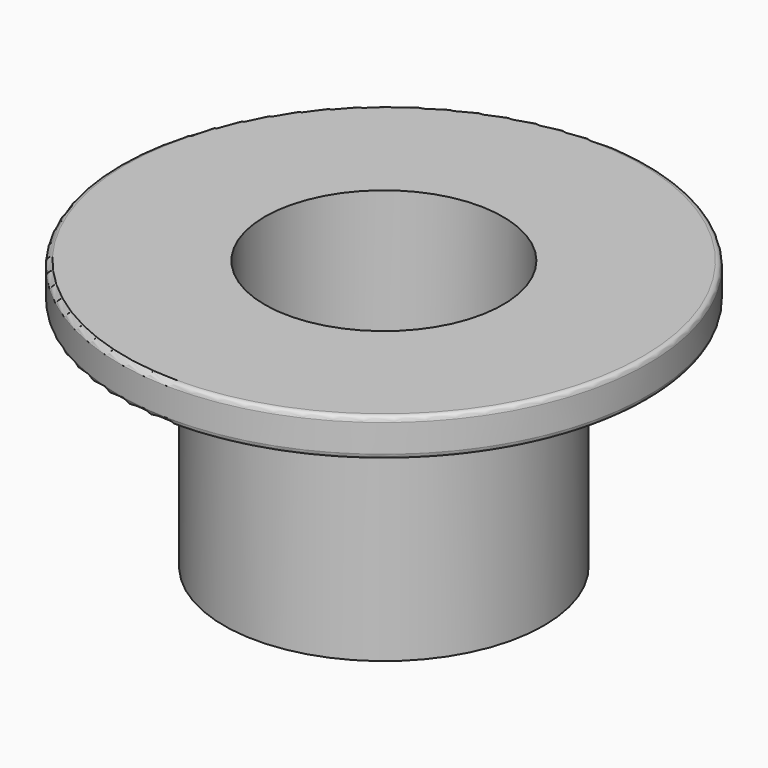
from build123d import *

# Parameters (mm, degrees)
F0_W = 16.0665810108
F0_H = 76.591335237
F1_W = 2.0740795881
F1_H = 12.7407778054
F3_R = 2
F4_R = 2


with BuildPart() as f2:
    # F0 (on Front) → F2 (revolve)
    with BuildSketch(Plane.XZ):
        Polygon((-23.4742984176, 22.5179940462), (-7.4077174067, 22.5179940462), (-7.4077174067, 37.4841094017), (-64.4110590219, 37.4841094017), (-64.4110590219, 22.5179940462), align=None)
        with Locations((-15.4410079122, -15.7776735723)):
            Rectangle(F0_W, F0_H)
        Polygon((39.4714772701, -54.0733411908), (-7.4077174067, -54.0733411908), (-23.4742984176, -54.0733411908), (-23.4742984176, -68.4892460704), (39.4714772701, -68.4892460704), align=None)
    revolve(axis=Axis((39.4714772701, 0, -61.2812936306), (0, 0, -1)))

    # F3
    f3_edges = [f2.edges().sort_by_distance(p)[0] for p in [
        (143.354014, 0, 22.517994),
    ]]
    fillet(f3_edges, radius=F3_R)

    # F4
    f4_edges = [f2.edges().sort_by_distance(p)[0] for p in [
        (143.354014, 0, 37.484109),
    ]]
    fillet(f4_edges, radius=F4_R)


with BuildPart() as f2b:
    # F1 (on Front) → F2, piece 2 (revolve)
    with BuildSketch(Plane.XZ):
        with Locations((-24.5777135715, 16.1331398413)):
            Rectangle(F1_W, F1_H)
    revolve(axis=Axis((39.4714772701, 0, -61.2812936306), (0, 0, -1)))


solid = Compound([f2.part, f2b.part])
